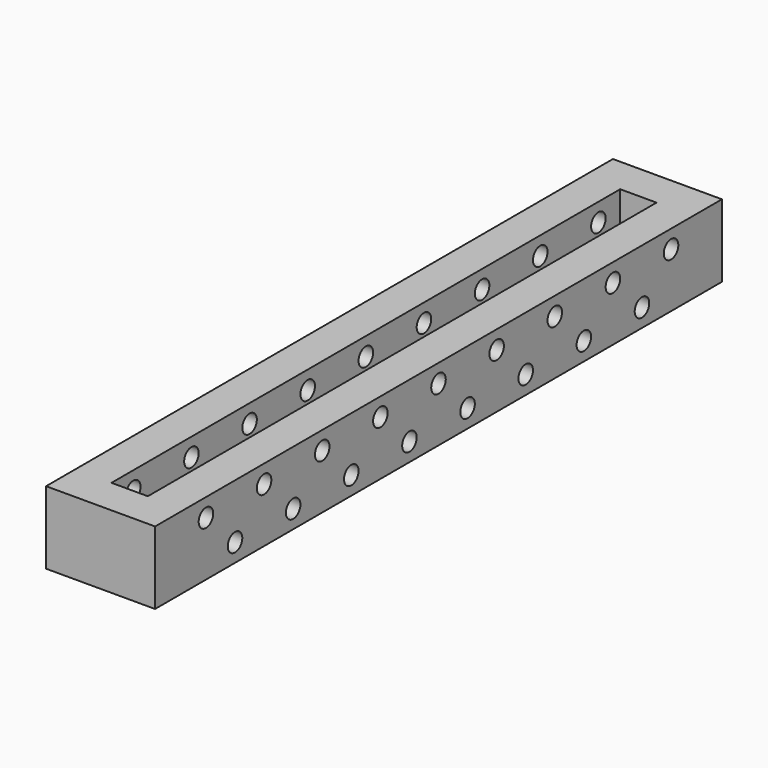
from build123d import *

# Parameters (mm, degrees)
F0_W     = 76.2
F0_H     = 50.8
F1_DEPTH = 495.3
F2_W     = 25.4
F2_H     = 444.5
F3_DEPTH = 50.8
F4_R     = 6.35
F5_DEPTH = 76.2


with BuildPart() as f1:
    # F0 (on Front) → F1 (new body)
    with BuildSketch(Plane.XZ):
        with Locations((38.1, -25.4)):
            Rectangle(F0_W, F0_H)
    extrude(amount=F1_DEPTH)

    # F2 (on face) → F3 (cut)
    with BuildSketch(Plane.XY):
        with Locations((38.1, -247.65)):
            Rectangle(F2_W, F2_H)
    extrude(amount=-F3_DEPTH, mode=Mode.SUBTRACT)

    # F4 (on face) → F5 (cut)
    with BuildSketch(Plane.YZ.offset(76.2)):
        with Locations((-450.85, -12.7)):
            Circle(F4_R)
        with Locations((-400.05, -12.7)):
            Circle(F4_R)
        with Locations((-349.25, -12.7)):
            Circle(F4_R)
        with Locations((-298.45, -12.7)):
            Circle(F4_R)
        with Locations((-247.65, -12.7)):
            Circle(F4_R)
        with Locations((-196.85, -12.7)):
            Circle(F4_R)
        with Locations((-146.05, -12.7)):
            Circle(F4_R)
        with Locations((-95.25, -12.7)):
            Circle(F4_R)
        with Locations((-44.45, -12.7)):
            Circle(F4_R)
        with Locations((-69.85, -38.1)):
            Circle(F4_R)
        with Locations((-120.65, -38.1)):
            Circle(F4_R)
        with Locations((-171.45, -38.1)):
            Circle(F4_R)
        with Locations((-222.25, -38.1)):
            Circle(F4_R)
        with Locations((-273.05, -38.1)):
            Circle(F4_R)
        with Locations((-323.85, -38.1)):
            Circle(F4_R)
        with Locations((-374.65, -38.1)):
            Circle(F4_R)
        with Locations((-425.45, -38.1)):
            Circle(F4_R)
    extrude(amount=-F5_DEPTH, mode=Mode.SUBTRACT)


solid = f1.part
